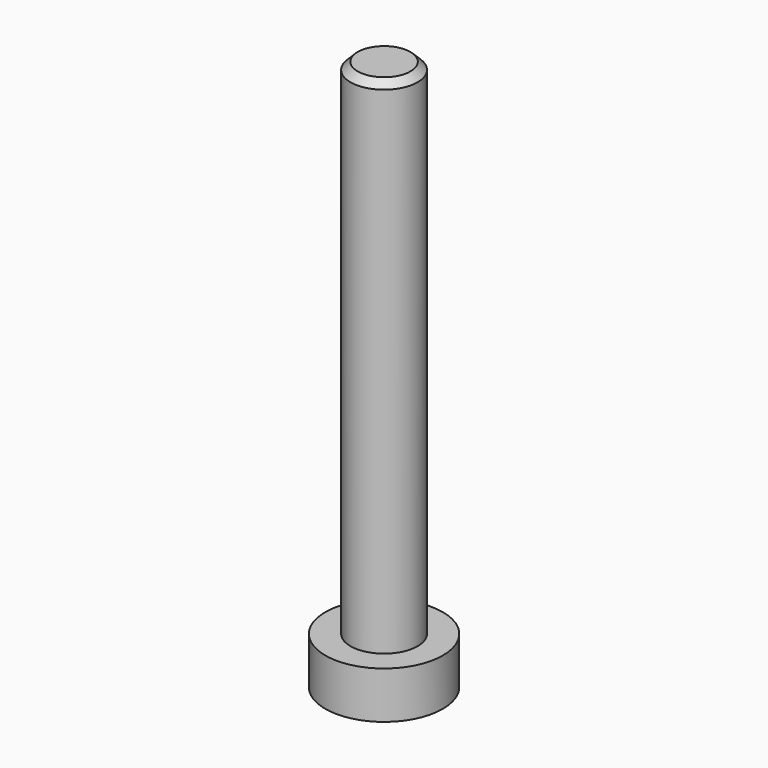
from build123d import *

# Parameters (mm, degrees)
SKETCH_R        = 3.5
PAD_DEPTH       = 2.8
SKETCH001_R     = 2
PAD001_DEPTH    = 30
CHAMFER_SIZE    = 0.43
POCKET_DEPTH    = 2
CHAMFER001_SIZE = 0.6
SKETCH003_R     = 1.05
POCKET001_DEPTH = 1.5


with BuildPart() as part:
    # Sketch → Pad (new body)
    with BuildSketch(Plane.XY):
        Circle(SKETCH_R)
    extrude(amount=PAD_DEPTH)

    # Sketch001 → Pad001 (new body)
    with BuildSketch(Plane.XY.offset(2.8)):
        Circle(SKETCH001_R)
    extrude(amount=PAD001_DEPTH)

    # Chamfer
    chamfer_edges = [part.edges().sort_by_distance(p)[0] for p in [
        (-2, 0, 32.8),
    ]]
    chamfer(chamfer_edges, length=CHAMFER_SIZE)

    # Sketch002 → Pocket (cut)
    with BuildSketch(Plane(origin=(0, 0, 0), x_dir=(1, 0, 0), z_dir=(0, 0, -1))):
        Polygon((-0.866025, 1.5), (0.866025, 1.5), (1.732051, 0), (0.866025, -1.5), (-0.866025, -1.5), (-1.732051, 0), align=None)
    extrude(amount=-POCKET_DEPTH, mode=Mode.SUBTRACT)

    # Chamfer001
    chamfer001_edges = [part.edges().sort_by_distance(p)[0] for p in [
        (0, -1.5, 2),
        (1.299038, -0.75, 2),
        (1.299038, 0.75, 2),
        (0, 1.5, 2),
        (-1.299038, 0.75, 2),
        (-1.299038, -0.75, 2),
    ]]
    chamfer(chamfer001_edges, length=CHAMFER001_SIZE)

    # Sketch003 → Pocket001 (cut, symmetric)
    with BuildSketch(Plane(origin=(0, 0, 2), x_dir=(1, 0, 0), z_dir=(0, 0, -1))):
        Circle(SKETCH003_R)
    extrude(amount=POCKET001_DEPTH, both=True, mode=Mode.SUBTRACT)


solid = part.part
